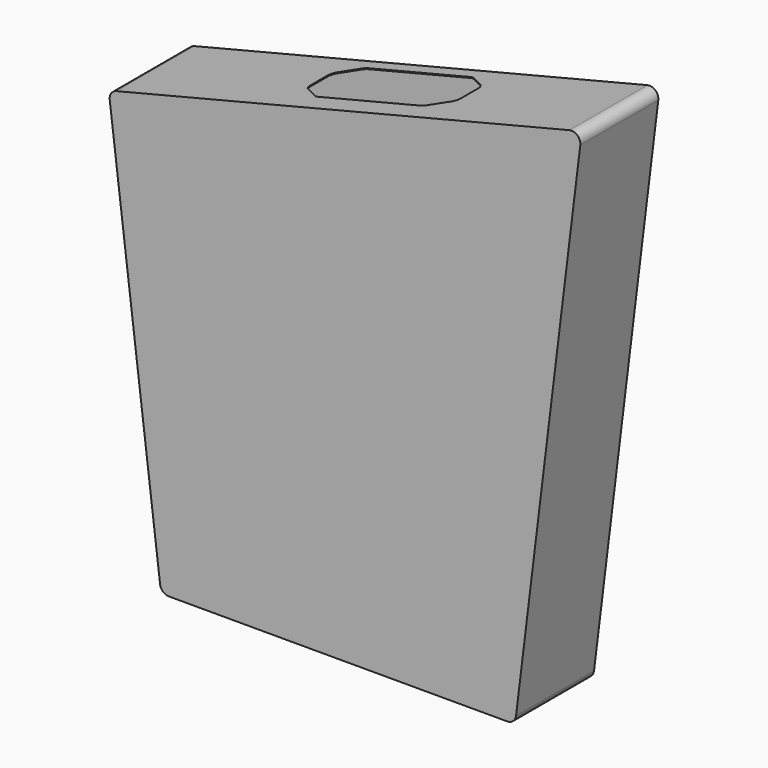
from build123d import *

# Parameters (mm, degrees)
F1_DEPTH = 55
F2_T     = -1
F4_DEPTH = 1


with BuildPart() as f1:
    # F0 (on Front) → F1 (new body, symmetric)
    with BuildSketch(Plane.XZ):
        with BuildLine():
            ThreePointArc((-181.3245903513, -365.2919652377), (-178.0253293171, -371.5628290115), (-171.3991288349, -374.0732718036))
            Line((-171.3991288349, -374.0732718036), (210.2621403614, -374.0732718036))
            ThreePointArc((210.2621403614, -374.0732718036), (216.8883408435, -371.5628290115), (220.1876018778, -365.2919652377))
            Line((220.1876018778, -365.2919652377), (292.6582958135, 224.9344720505))
            ThreePointArc((292.6582958135, 224.9344720505), (289.3590347792, 233.6427226924), (280.3136153411, 235.8561227473))
            Line((280.3136153411, 235.8561227473), (-230.6466922573, 108.4594097216))
            ThreePointArc((-230.6466922573, 108.4594097216), (-236.4687351875, 104.4205148281), (-238.1529348177, 97.5377590248))
            Line((-238.1529348177, 97.5377590248), (-181.3245903513, -365.2919652377))
        make_face()
    extrude(amount=F1_DEPTH, both=True)

    # F2 (hollow: no face is removed)
    offset(amount=F2_T, mode=Mode.SUBTRACT)

    # F3 (on face) → F4 (cut, through all)
    with BuildSketch(Plane(origin=(-38.9581795543, 0, 156.2527237618), x_dir=(0.9702957263, 0, 0.2419218956), z_dir=(-0.2419218956, 0, 0.9702957263))):
        with BuildLine():
            ThreePointArc((-7.1386698707, 25.4085332208), (-10.2738331899, 21.8343178236), (-11.404046427, 17.2162140156))
            Line((-11.404046427, 17.2162140156), (-11.404046427, -7.3706747529))
            ThreePointArc((-11.404046427, -7.3706747529), (-10.2738331899, -11.988778561), (-7.1386698707, -15.5629939581))
            Line((-7.1386698707, -15.5629939581), (11.0135524375, -28.2695495739))
            ThreePointArc((11.0135524375, -28.2695495739), (13.7417820324, -29.6146092552), (16.7481758812, -30.0772303687))
            Line((16.7481758812, -30.0772303687), (135.4437312648, -30.0772303687))
            ThreePointArc((135.4437312648, -30.0772303687), (138.4501251136, -29.6146092552), (141.1783547084, -28.2695495739))
            Line((141.1783547084, -28.2695495739), (159.3305770166, -15.5629939581))
            ThreePointArc((159.3305770166, -15.5629939581), (162.4657403358, -11.988778561), (163.595953573, -7.3706747529))
            Line((163.595953573, -7.3706747529), (163.595953573, 17.2162140156))
            ThreePointArc((163.595953573, 17.2162140156), (162.4657403358, 21.8343178236), (159.3305770166, 25.4085332208))
            Line((159.3305770166, 25.4085332208), (141.1783547084, 38.1150888365))
            ThreePointArc((141.1783547084, 38.1150888365), (138.4501251136, 39.4601485179), (135.4437312648, 39.9227696313))
            Line((135.4437312648, 39.9227696313), (16.7481758812, 39.9227696313))
            ThreePointArc((16.7481758812, 39.9227696313), (13.7417820324, 39.4601485179), (11.0135524375, 38.1150888365))
            Line((11.0135524375, 38.1150888365), (-7.1386698707, 25.4085332208))
        make_face()
    extrude(amount=-F4_DEPTH, mode=Mode.SUBTRACT)


solid = f1.part
